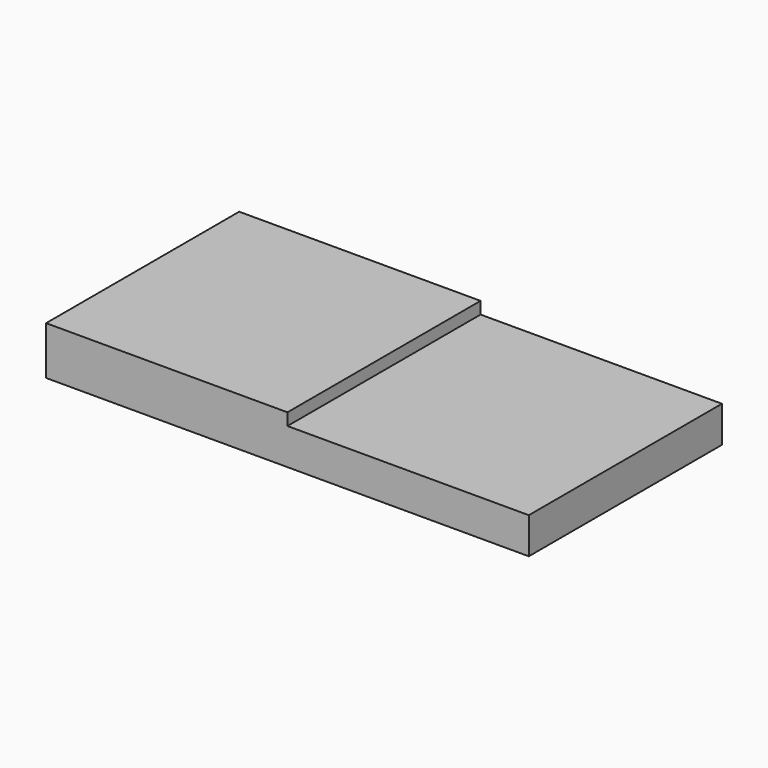
from build123d import *

# Parameters (mm, degrees)
F0_W     = 10
F0_H     = 10
F1_DEPTH = 2
F2_W     = 10
F2_H     = 10
F3_DEPTH = 1.5


with BuildPart() as f1:
    # F0 (on Top) → F1 (new body)
    with BuildSketch(Plane.XY):
        with Locations((5, 5)):
            Rectangle(F0_W, F0_H)
    extrude(amount=F1_DEPTH)

    # F2 (on Top) → F3 (join)
    with BuildSketch(Plane.XY):
        with Locations((15, 5)):
            Rectangle(F2_W, F2_H)
    extrude(amount=F3_DEPTH)


solid = f1.part
